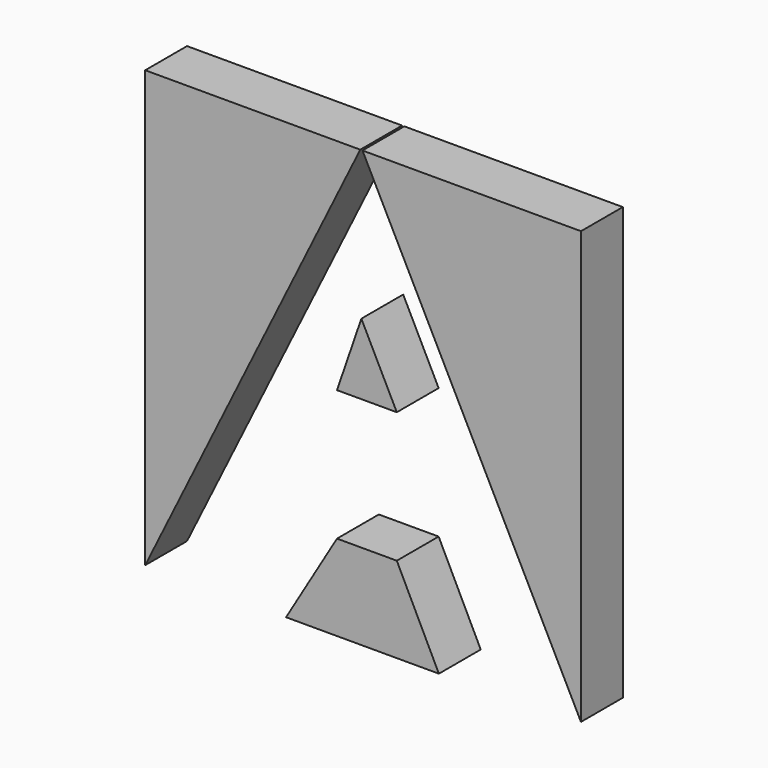
from build123d import *

# Parameters (mm, degrees)
F1_DEPTH = 3.048
F3_DEPTH = 25.4


with BuildPart() as f1:
    # F0 (on Front) → F1 (new body)
    with BuildSketch(Plane.XZ):
        Polygon((12.7, 25.4), (0, 0), (8.382, 0), (10.954251, 5.144501), (14.445749, 5.144501), (17.018, 0), (25.4, 0), align=None)
        Polygon((14.8082, 12.7), (10.5918, 12.7), (12.7, 16.9164), align=None, mode=Mode.SUBTRACT)
        Polygon((0, 25.4), (0, 0), (12.7, 25.4), align=None)
        Polygon((10.954251, 5.144501), (8.382, 0), (17.018, 0), (14.445749, 5.144501), align=None)
        Polygon((25.4, 25.4), (12.7, 25.4), (25.4, 0), align=None)
        Polygon((12.7, 16.9164), (10.5918, 12.7), (14.8082, 12.7), align=None)
    extrude(amount=F1_DEPTH)

    # F2 (on Front) → F3 (cut)
    with BuildSketch(Plane.XZ):
        Polygon((12.599513, 25.529418), (0, 0), (8.209742, 0), (11.179293, 5.000784), (14.665287, 5.000784), (17.118394, 0), (25.510604, 0), align=None)
        Polygon((14.665287, 12.618327), (11.179293, 12.618327), (12.599513, 16.749876), align=None, mode=Mode.SUBTRACT)
    extrude(amount=F3_DEPTH, mode=Mode.SUBTRACT)


solid = f1.part
